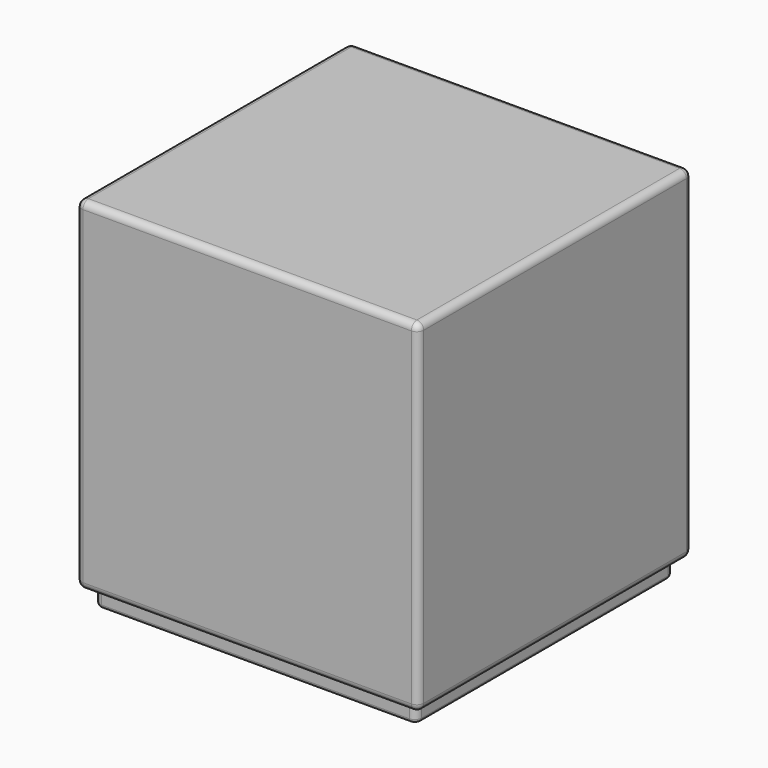
from build123d import *

# Parameters (mm, degrees)
F0_W     = 127
F0_H     = 127
F1_DEPTH = 127
F2_W     = 119.38
F2_H     = 119.38
F3_DEPTH = 6.35
F4_R     = 2.54
F5_R     = 2.54
F6_R     = 1.27


with BuildPart() as f1:
    # F0 (on Top) → F1 (new body)
    with BuildSketch(Plane.XY):
        Rectangle(F0_W, F0_H)
    extrude(amount=F1_DEPTH)

    # F2 (on face) → F3 (join)
    with BuildSketch(Plane(origin=(0, 0, 0), x_dir=(1, 0, 0), z_dir=(0, 0, -1))):
        Rectangle(F2_W, F2_H)
    extrude(amount=F3_DEPTH)

    # F4
    f4_edges = [f1.edges().sort_by_distance(p)[0] for p in [
        (63.5, 63.5, 63.5),
        (-63.5, 63.5, 63.5),
        (0, 63.5, 0),
        (0, 63.5, 127),
        (-63.5, -63.5, 63.5),
        (-63.5, 0, 0),
        (-63.5, 0, 127),
        (63.5, -63.5, 63.5),
        (0, -63.5, 0),
        (0, -63.5, 127),
        (63.5, 0, 0),
        (63.5, 0, 127),
    ]]
    fillet(f4_edges, radius=F4_R)

    # F5
    f5_edges = [f1.edges().sort_by_distance(p)[0] for p in [
        (59.69, -59.69, -3.175),
        (-59.69, -59.69, -3.175),
        (59.69, 59.69, -3.175),
        (-59.69, 59.69, -3.175),
    ]]
    fillet(f5_edges, radius=F5_R)

    # F6
    f6_edges = [f1.edges().sort_by_distance(p)[0] for p in [
        (0, -59.69, -6.35),
        (58.946051, -58.946051, -6.35),
        (-58.946051, -58.946051, -6.35),
        (59.69, 0, -6.35),
        (-59.69, 0, -6.35),
        (58.946051, 58.946051, -6.35),
        (-58.946051, 58.946051, -6.35),
        (0, 59.69, -6.35),
    ]]
    fillet(f6_edges, radius=F6_R)


solid = f1.part
